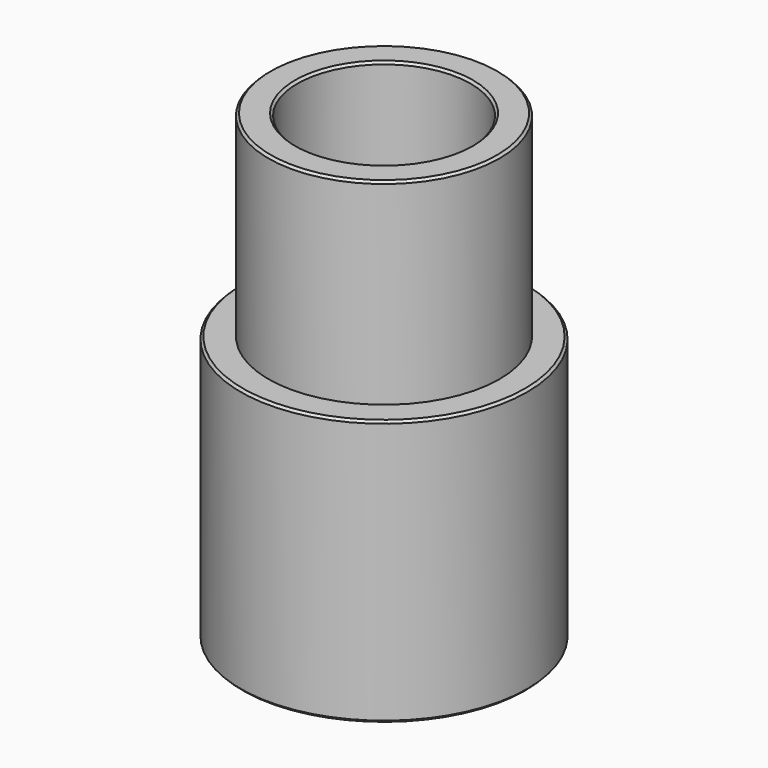
from build123d import *

# Parameters (mm, degrees)
F0_R      = 15.748
F0_R_2    = 12.7
F1_DEPTH  = 29.21
F0_R_3    = 9.525
F2_DEPTH  = 50.8
F3_DEPTH  = 12.7
F4_SIZE   = 0.254
F4_2_SIZE = 0.254


with BuildPart() as f1:
    # F0 (on Top) → F1 (new body)
    with BuildSketch(Plane.XY):
        Circle(F0_R)
        Circle(F0_R_2, mode=Mode.SUBTRACT)
    extrude(amount=F1_DEPTH)

    # F4#2
    f4_2_edges = [f1.edges().sort_by_distance(p)[0] for p in [
        (-15.748, 0, 29.21),
        (-15.748, 0, 0),
    ]]
    chamfer(f4_2_edges, length=F4_2_SIZE)


with BuildPart() as f2:
    # F0 (on Top) → F2 (new body)
    with BuildSketch(Plane.XY):
        Circle(F0_R_2)
        Circle(F0_R_3, mode=Mode.SUBTRACT)
    extrude(amount=F2_DEPTH)

    # F0 (on Top) → F3 (cut)
    with BuildSketch(Plane.XY):
        Circle(F0_R_2)
        Circle(F0_R_3, mode=Mode.SUBTRACT)
    extrude(amount=F3_DEPTH, mode=Mode.SUBTRACT)

    # F4
    f4_edges = [f2.edges().sort_by_distance(p)[0] for p in [
        (-12.7, 0, 50.8),
        (-9.525, 0, 50.8),
    ]]
    chamfer(f4_edges, length=F4_SIZE)


solid = Compound([f1.part, f2.part])
